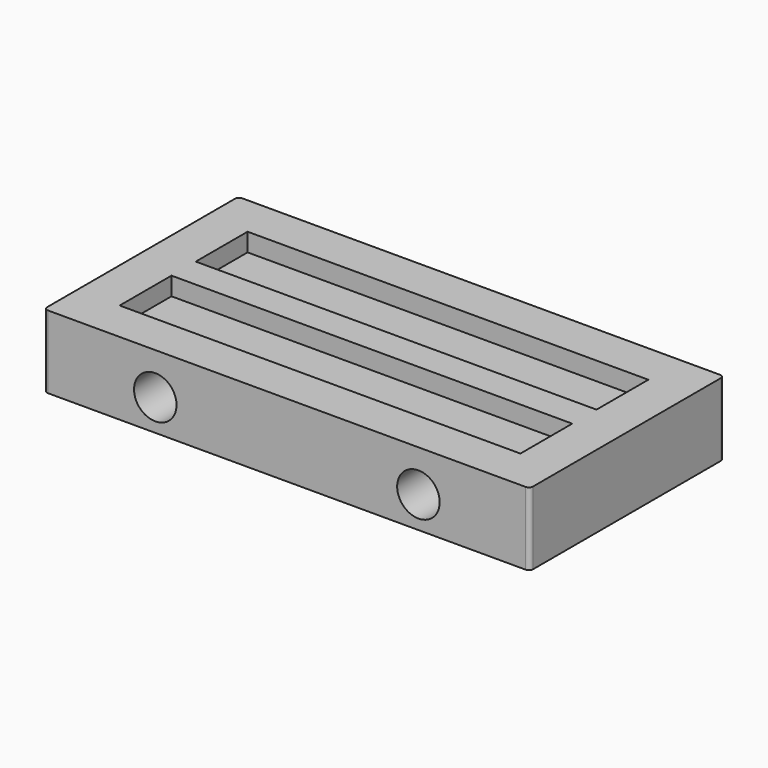
from build123d import *

# Parameters (mm, degrees)
F0_W     = 24
F0_H     = 12
F0_W_2   = 19.8
F0_H_2   = 3.2
F1_DEPTH = 0.9
F2_W     = 24
F2_H     = 12
F3_DEPTH = 2.7
F4_R     = 1.6
F5_DEPTH = 1.2
F6_R     = 0.2
F7_R     = 1.05
F8_DEPTH = 5


with BuildPart() as f1:
    # F0 (on Top) → F1 (new body)
    with BuildSketch(Plane.XY):
        Rectangle(F0_W, F0_H)
        with Locations((0, -2.35)):
            Rectangle(F0_W_2, F0_H_2, mode=Mode.SUBTRACT)
        with Locations((0, 2.35)):
            Rectangle(F0_W_2, F0_H_2, mode=Mode.SUBTRACT)
    extrude(amount=F1_DEPTH)

    # F2 (on face) → F3 (join)
    with BuildSketch(Plane(origin=(0, 0, 0), x_dir=(1, 0, 0), z_dir=(0, 0, -1))):
        Rectangle(F2_W, F2_H)
    extrude(amount=F3_DEPTH)

    # F4 (on face) → F5 (cut)
    with BuildSketch(Plane(origin=(0, 0, -2.7), x_dir=(1, 0, 0), z_dir=(0, 0, -1))):
        Circle(F4_R)
        with Locations((-9, 0)):
            Circle(F4_R)
        with Locations((9, 0)):
            Circle(F4_R)
    extrude(amount=-F5_DEPTH, mode=Mode.SUBTRACT)

    # F6
    f6_edges = [f1.edges().sort_by_distance(p)[0] for p in [
        (-12, -6, -0.9),
        (-12, 6, -0.9),
        (12, 6, -0.9),
        (12, -6, -0.9),
    ]]
    fillet(f6_edges, radius=F6_R)

    # F7 (on face) → F8 (cut)
    with BuildSketch(Plane.XZ.offset(6)):
        with Locations((-6.5, -1.15)):
            Circle(F7_R)
        with Locations((6.5, -1.15)):
            Circle(F7_R)
    extrude(amount=-F8_DEPTH, mode=Mode.SUBTRACT)


solid = f1.part
